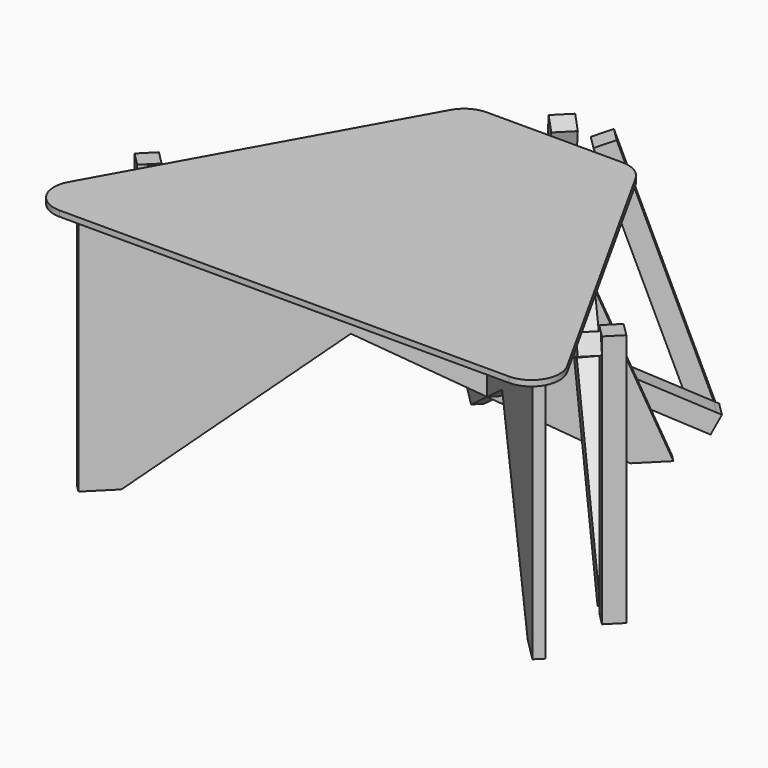
from build123d import *

# Parameters (mm, degrees)
F2_DEPTH  = 34
F3_DEPTH  = 34
F4_DEPTH  = 34
F5_DEPTH  = 37
F6_ANGLE  = 45
F7_DEPTH  = 34
F8_DEPTH  = 34
F9_DEPTH  = 34
F10_DEPTH = 34
F11_ANGLE = -45
F13_DEPTH = 85
F14_START = -84
F14_DEPTH = 66
F15_START = 225
F15_DEPTH = 10
F17_DEPTH = 18
F18_ANGLE = 90
F19_ANGLE = 45


with BuildPart() as f2:
    # F1 (on Right) → F2 (new body)
    with BuildSketch(Plane.YZ):
        Polygon((-405.91, -225), (-371.91, -225), (-371.91, -198.4734953276), (-371.91, 176.990782894), (-405.91, 194.928441133), align=None)
        Polygon((-405.91, 194.928441133), (-371.91, 176.990782894), (-371.91, 215.432421557), (-390.0449015979, 225), align=None)
        Polygon((-390.0449015979, 225), (-371.91, 215.432421557), (-371.91, 225), align=None)
        Polygon((-405.91, 225), (-405.91, 194.928441133), (-390.0449015979, 225), align=None)
    extrude(amount=F2_DEPTH)


with BuildPart() as f3:
    # F1 (on Right) → F3 (new body)
    with BuildSketch(Plane.YZ):
        Polygon((-371.91, -198.4734953276), (-350.6416067869, -225), (-56.6874607332, 10.6862482294), (-89.4695126648, 27.9813436388), align=None)
        Polygon((-89.4695126648, 27.9813436388), (-56.6874607332, 10.6862482294), (-27.7699956434, 33.8716631889), (-60.552047575, 51.1667585983), align=None)
        Polygon((-60.552047575, 51.1667585983), (-27.7699956434, 33.8716631889), (177.5257794335, 198.4734953276), (156.2573862205, 225), align=None)
    extrude(amount=F3_DEPTH)


with BuildPart() as f4:
    # F1 (on Right) → F4 (new body)
    with BuildSketch(Plane.YZ):
        Polygon((-405.91, 194.928441133), (-371.91, 176.990782894), (-371.91, 215.432421557), (-390.0449015979, 225), align=None)
        Polygon((-371.91, 176.990782894), (-89.4695126648, 27.9813436388), (-60.552047575, 51.1667585983), (-371.91, 215.432421557), align=None)
        Polygon((-89.4695126648, 27.9813436388), (-56.6874607332, 10.6862482294), (-27.7699956434, 33.8716631889), (-60.552047575, 51.1667585983), align=None)
        Polygon((154.557450799, -100.7619584704), (184.629009666, -116.6270568725), (192.561558867, -101.591277439), (177.5257794335, -93.658728238), (162.49, -85.7261790369), align=None)
        Polygon((184.629009666, -116.6270568725), (370.1657176772, -214.5121762577), (355.0533503298, -168.0975822811), (200.4941080681, -86.5554980055), (192.561558867, -101.591277439), align=None)
        Polygon((370.1657176772, -214.5121762577), (383.7616195611, -221.6850774766), (393.4596862915, -218.527433847), (401.974786523, -202.3874559295), (398.2262820921, -190.8746791966), (355.0533503298, -168.0975822811), align=None)
        Polygon((383.7616195611, -221.6850774766), (390.0449015979, -225), (393.4596862915, -218.527433847), align=None)
        Polygon((401.974786523, -202.3874559295), (405.91, -194.928441133), (398.2262820921, -190.8746791966), align=None)
        Polygon((177.5257794335, -93.658728238), (192.561558867, -101.591277439), (200.4941080681, -86.5554980055), (177.5257794335, -74.4379089064), align=None)
        Polygon((135.0010573651, -71.2236126153), (135.0010573651, -90.4444319468), (154.557450799, -100.7619584704), (162.49, -85.7261790369), align=None)
        Polygon((-27.7699956434, 33.8716631889), (-56.6874607332, 10.6862482294), (135.0010573651, -90.4444319468), (135.0010573651, -71.2236126153), (135.0010573651, -52.0027932837), align=None)
        Polygon((170.422549201, -70.6903996034), (162.49, -85.7261790369), (177.5257794335, -93.658728238), (177.5257794335, -74.4379089064), align=None)
        Polygon((135.0010573651, -52.0027932837), (135.0010573651, -71.2236126153), (162.49, -85.7261790369), (170.422549201, -70.6903996034), align=None)
    extrude(amount=-F4_DEPTH)


with BuildPart() as f5:
    # F1 (on Right) → F5 (new body)
    with BuildSketch(Plane.YZ):
        Polygon((355.0533503298, -168.0975822811), (398.2262820921, -190.8746791966), (262.8194976292, 225), (230.49, 214.4736719107), align=None)
        Polygon((370.1657176772, -214.5121762577), (383.7616195611, -221.6850774766), (393.4596862915, -218.527433847), (401.974786523, -202.3874559295), (398.2262820921, -190.8746791966), (355.0533503298, -168.0975822811), align=None)
        Polygon((393.4596862915, -218.527433847), (405.91, -214.4736719107), (401.974786523, -202.3874559295), align=None)
        Polygon((370.1657176772, -214.5121762577), (373.5805023708, -225), (383.7616195611, -221.6850774766), align=None)
    extrude(amount=F5_DEPTH)


with BuildPart() as f2_1:
    # F6: moved
    add(f2.part.rotate(Axis((0, 177.5257794335, 65.670635881), (0, 0, 1)), F6_ANGLE))


with BuildPart() as f3_1:
    # F6: moved
    add(f3.part.rotate(Axis((0, 177.5257794335, 65.670635881), (0, 0, 1)), F6_ANGLE))


with BuildPart() as f4_1:
    # F6: moved
    add(f4.part.rotate(Axis((0, 177.5257794335, 65.670635881), (0, 0, 1)), F6_ANGLE))


with BuildPart() as f5_1:
    # F6: moved
    add(f5.part.rotate(Axis((0, 177.5257794335, 65.670635881), (0, 0, 1)), F6_ANGLE))


with BuildPart() as f7:
    # F1 (on Right) → F7 (new body)
    with BuildSketch(Plane.YZ):
        Polygon((-89.4695126648, 27.9813436388), (-56.6874607332, 10.6862482294), (-27.7699956434, 33.8716631889), (-60.552047575, 51.1667585983), align=None)
        Polygon((-371.91, 176.990782894), (-89.4695126648, 27.9813436388), (-60.552047575, 51.1667585983), (-371.91, 215.432421557), align=None)
        Polygon((184.629009666, -116.6270568725), (370.1657176772, -214.5121762577), (355.0533503298, -168.0975822811), (200.4941080681, -86.5554980055), (192.561558867, -101.591277439), align=None)
        Polygon((370.1657176772, -214.5121762577), (383.7616195611, -221.6850774766), (393.4596862915, -218.527433847), (401.974786523, -202.3874559295), (398.2262820921, -190.8746791966), (355.0533503298, -168.0975822811), align=None)
        Polygon((-405.91, 194.928441133), (-371.91, 176.990782894), (-371.91, 215.432421557), (-390.0449015979, 225), align=None)
        Polygon((401.974786523, -202.3874559295), (405.91, -194.928441133), (398.2262820921, -190.8746791966), align=None)
        Polygon((383.7616195611, -221.6850774766), (390.0449015979, -225), (393.4596862915, -218.527433847), align=None)
        Polygon((-27.7699956434, 33.8716631889), (-56.6874607332, 10.6862482294), (135.0010573651, -90.4444319468), (135.0010573651, -71.2236126153), (135.0010573651, -52.0027932837), align=None)
        Polygon((177.5257794335, -93.658728238), (192.561558867, -101.591277439), (200.4941080681, -86.5554980055), (177.5257794335, -74.4379089064), align=None)
        Polygon((135.0010573651, -52.0027932837), (135.0010573651, -71.2236126153), (162.49, -85.7261790369), (170.422549201, -70.6903996034), align=None)
        Polygon((170.422549201, -70.6903996034), (162.49, -85.7261790369), (177.5257794335, -93.658728238), (177.5257794335, -74.4379089064), align=None)
        Polygon((154.557450799, -100.7619584704), (184.629009666, -116.6270568725), (192.561558867, -101.591277439), (177.5257794335, -93.658728238), (162.49, -85.7261790369), align=None)
        Polygon((135.0010573651, -71.2236126153), (135.0010573651, -90.4444319468), (154.557450799, -100.7619584704), (162.49, -85.7261790369), align=None)
    extrude(amount=F7_DEPTH)


with BuildPart() as f8:
    # F1 (on Right) → F8 (new body)
    with BuildSketch(Plane.YZ):
        Polygon((-371.91, -198.4734953276), (-350.6416067869, -225), (-56.6874607332, 10.6862482294), (-89.4695126648, 27.9813436388), align=None)
        Polygon((-89.4695126648, 27.9813436388), (-56.6874607332, 10.6862482294), (-27.7699956434, 33.8716631889), (-60.552047575, 51.1667585983), align=None)
        Polygon((-60.552047575, 51.1667585983), (-27.7699956434, 33.8716631889), (177.5257794335, 198.4734953276), (156.2573862205, 225), align=None)
    extrude(amount=-F8_DEPTH)


with BuildPart() as f9:
    # F1 (on Right) → F9 (new body)
    with BuildSketch(Plane.YZ):
        Polygon((-405.91, -225), (-371.91, -225), (-371.91, -198.4734953276), (-371.91, 176.990782894), (-405.91, 194.928441133), align=None)
        Polygon((-405.91, 194.928441133), (-371.91, 176.990782894), (-371.91, 215.432421557), (-390.0449015979, 225), align=None)
        Polygon((-405.91, 225), (-405.91, 194.928441133), (-390.0449015979, 225), align=None)
        Polygon((-390.0449015979, 225), (-371.91, 215.432421557), (-371.91, 225), align=None)
    extrude(amount=-F9_DEPTH)


with BuildPart() as f10:
    # F1 (on Right) → F10 (new body)
    with BuildSketch(Plane.YZ):
        Polygon((355.0533503298, -168.0975822811), (398.2262820921, -190.8746791966), (262.8194976292, 225), (230.49, 214.4736719107), align=None)
        Polygon((370.1657176772, -214.5121762577), (383.7616195611, -221.6850774766), (393.4596862915, -218.527433847), (401.974786523, -202.3874559295), (398.2262820921, -190.8746791966), (355.0533503298, -168.0975822811), align=None)
        Polygon((393.4596862915, -218.527433847), (405.91, -214.4736719107), (401.974786523, -202.3874559295), align=None)
        Polygon((370.1657176772, -214.5121762577), (373.5805023708, -225), (383.7616195611, -221.6850774766), align=None)
    extrude(amount=-F10_DEPTH)


with BuildPart() as f7_1:
    # F11: moved
    add(f7.part.rotate(Axis((0, 177.5257794335, 65.670635881), (0, 0, 1)), F11_ANGLE))


with BuildPart() as f8_1:
    # F11: moved
    add(f8.part.rotate(Axis((0, 177.5257794335, 65.670635881), (0, 0, 1)), F11_ANGLE))


with BuildPart() as f9_1:
    # F11: moved
    add(f9.part.rotate(Axis((0, 177.5257794335, 65.670635881), (0, 0, 1)), F11_ANGLE))


with BuildPart() as f10_1:
    # F11: moved
    add(f10.part.rotate(Axis((0, 177.5257794335, 65.670635881), (0, 0, 1)), F11_ANGLE))


with BuildPart() as f2_2:
    # F12: moved
    add(f2_1.part.moved(Location((0, -25.609, 0))))


with BuildPart() as f3_2:
    # F12: moved
    add(f3_1.part.moved(Location((0, -25.609, 0))))


with BuildPart() as f4_2:
    # F12: moved
    add(f4_1.part.moved(Location((0, -25.609, 0))))

    # F0 (on Top) → F14 (cut)
    with BuildSketch(Plane.XY.offset(F14_START)):
        Polygon((0, 152.6238456605), (-24.7487373415, 127.875108319), (0, 103.1263709774), (24.7487373415, 127.875108319), align=None)
    extrude(amount=-F14_DEPTH, mode=Mode.SUBTRACT)


with BuildPart() as f5_2:
    # F12: moved
    add(f5_1.part.moved(Location((0, -25.609, 0))))


with BuildPart() as f7_2:
    # F12: moved
    add(f7_1.part.moved(Location((0, -25.609, 0))))

    # F0 (on Top) → F13 (cut)
    with BuildSketch(Plane.XY):
        Polygon((0, 152.6238456605), (-24.7487373415, 127.875108319), (0, 103.1263709774), (24.7487373415, 127.875108319), align=None)
    extrude(amount=-F13_DEPTH, mode=Mode.SUBTRACT)


with BuildPart() as f8_2:
    # F12: moved
    add(f8_1.part.moved(Location((0, -25.609, 0))))


with BuildPart() as f9_2:
    # F12: moved
    add(f9_1.part.moved(Location((0, -25.609, 0))))


with BuildPart() as f10_2:
    # F12: moved
    add(f10_1.part.moved(Location((0, -25.609, 0))))


with BuildPart() as f15:
    # F0 (on Top) → F15 (new body)
    with BuildSketch(Plane.XY.offset(F15_START)):
        with BuildLine():
            ThreePointArc((-120.6083873356, 300), (-145.9464857473, 293.1043010485), (-164.295628213, 274.3192307551))
            Line((-164.295628213, 274.3192307551), (-442.6289615463, -225.6807692449))
            ThreePointArc((-442.6289615463, -225.6807692449), (-442.0460217174, -275.3380984117), (-398.9417206689, -300))
            Line((-398.9417206689, -300), (398.9417206689, -300))
            ThreePointArc((398.9417206689, -300), (442.0460217174, -275.3380984117), (442.6289615463, -225.6807692449))
            Line((442.6289615463, -225.6807692449), (164.295628213, 274.3192307551))
            ThreePointArc((164.295628213, 274.3192307551), (145.9464857473, 293.1043010485), (120.6083873356, 300))
            Line((120.6083873356, 300), (-120.6083873356, 300))
        make_face()
        Polygon((0, 103.1263709774), (-24.7487373415, 127.875108319), (0, 152.6238456605), (24.7487373415, 127.875108319), align=None, mode=Mode.SUBTRACT)
        Polygon((0, 152.6238456605), (-24.7487373415, 127.875108319), (0, 103.1263709774), (24.7487373415, 127.875108319), align=None)
    extrude(amount=F15_DEPTH)


with BuildPart() as f17:
    # F16 (on Top) → F17 (new body)
    with BuildSketch(Plane.XY):
        Polygon((-475.0134006449, 251.1772120818), (-475.0134006449, -198.8227879182), (-415.0134006449, -198.8227879182), (-95.0134006449, 26.1772217924), (294.9865993551, -198.8227782076), (354.9865993551, -198.8227782076), (174.9865993551, 251.1772217924), (112.9865993551, 251.1772217924), (112.9865993551, 26.1772217924), (94.9865993551, 26.1772217924), (94.9865993551, 251.1772217924), (54.9865993551, 251.1772217924), (-95.0134006449, 146.1772217924), (-415.0134006449, 251.1772120818), align=None)
    extrude(amount=F17_DEPTH)


with BuildPart() as f17_1:
    # F18: moved
    add(f17.part.rotate(Axis((103.9865993551, 26.1772217924, 18), (1, 0, 0)), F18_ANGLE))


with BuildPart() as f17_2:
    # F19: moved
    add(f17_1.part.rotate(Axis((94.9865993551, 44.1772217924, 130.5), (0, 0, 1)), F19_ANGLE))


with BuildPart() as f17_3:
    # F20: moved
    add(f17_2.part.moved(Location((-107.7145214164, -31.449299731, -18))))


with BuildPart() as f21_1:
    # F21: instance of F17
    add(f17_3.part.mirror(Plane.YZ))


with BuildPart() as f15_1:
    # F22: moved
    add(f15.part.moved(Location((0, -150, 0))))


solid = Compound([f2_2.part, f3_2.part, f4_2.part, f5_2.part, f7_2.part, f8_2.part, f9_2.part, f10_2.part, f17_3.part, f21_1.part, f15_1.part])
